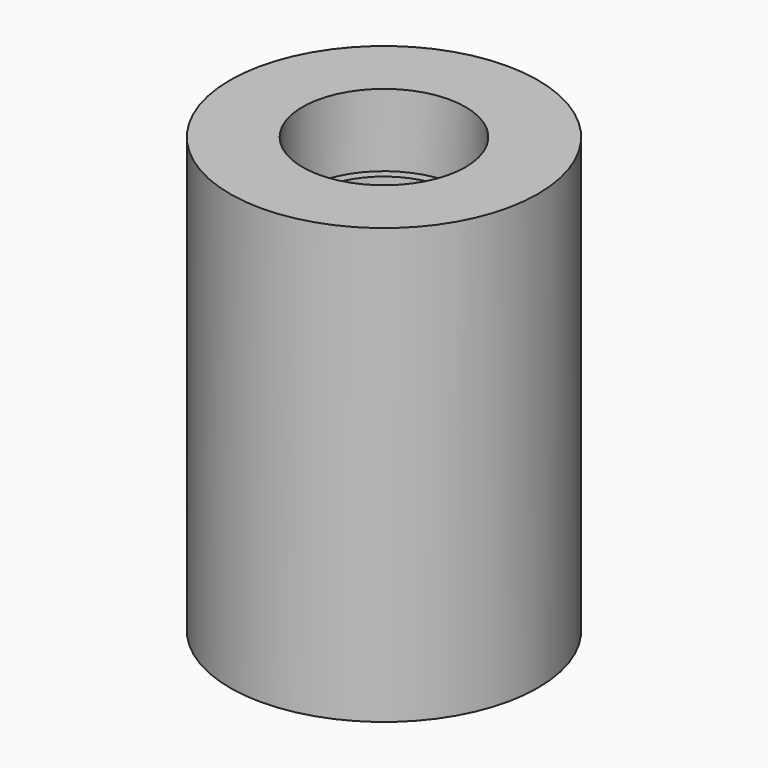
from build123d import *

# Parameters (mm, degrees)
F0_R          = 14.2875
F0_R_2        = 12.7
F2_DEPTH      = 50.8
F3_R          = 26.9875
F3_R_2        = 14.2875
F4_DEPTH      = 63.5
F4_DEPTH_BACK = 12.7


with BuildPart() as f2:
    # F0 (on Top) → F2 (new body)
    with BuildSketch(Plane.XY):
        Circle(F0_R)
        Circle(F0_R_2, mode=Mode.SUBTRACT)
    extrude(amount=F2_DEPTH)

    # F3 (on face) → F4 (join, two sides)
    with BuildSketch(Plane.XY) as f4_sk:
        Circle(F3_R)
        Circle(F3_R_2, mode=Mode.SUBTRACT)
    extrude(amount=F4_DEPTH)
    extrude(f4_sk.sketch, amount=-F4_DEPTH_BACK)


solid = f2.part
